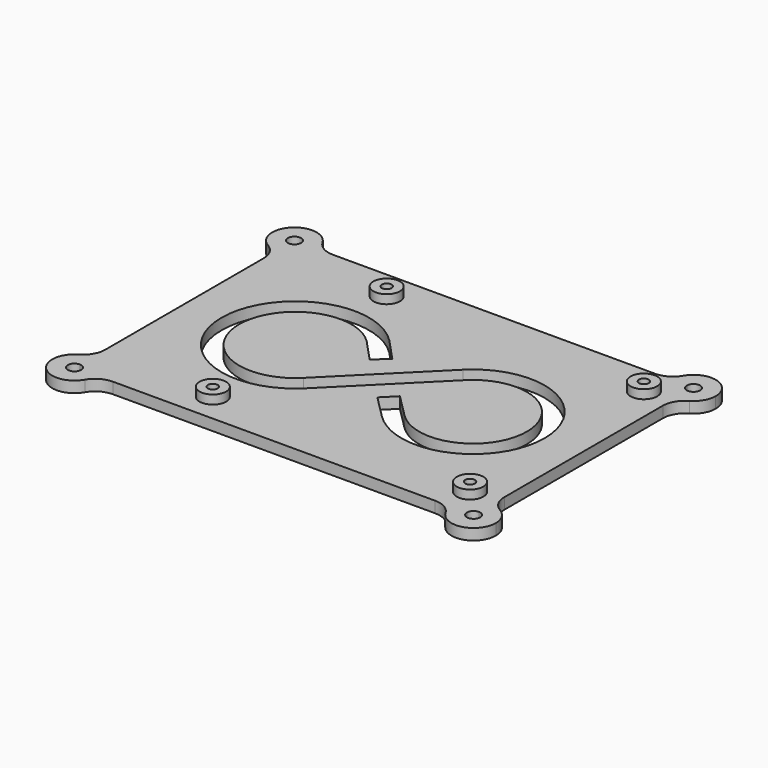
from build123d import *

# Parameters (mm, degrees)
F1_DEPTH = 2.5
F2_R     = 5
F3_R     = 3
F4_DEPTH = 2
F6_D     = 2.2
F6_DEPTH = 3.5
F6_TIP   = 0.6609466809


with BuildPart() as f1:
    # F0 (on Top) → F1 (new body)
    with BuildSketch(Plane.XY):
        with BuildLine():
            ThreePointArc((-45, -26), (-48.5355339059, -34.5355339059), (-40, -31))
            Line((-40, -31), (-43.5, -31))
            ThreePointArc((-43.5, -31), (-46.0606601718, -32.0606601718), (-45, -29.5))
            Line((-45, -29.5), (-45, -26))
        make_face()
        with BuildLine():
            ThreePointArc((-45, -26), (-41.4644660941, -27.4644660941), (-40, -31))
            Line((-40, -31), (40, -31))
            ThreePointArc((40, -31), (41.4644660941, -27.4644660941), (45, -26))
            Line((45, -26), (45, 26))
            ThreePointArc((45, 26), (41.4644660941, 27.4644660941), (40, 31))
            Line((40, 31), (-40, 31))
            ThreePointArc((-40, 31), (-41.4644660941, 27.4644660941), (-45, 26))
            Line((-45, 26), (-45, -26))
        make_face()
        with BuildLine():
            Line((-11.0606601718, -8.9393398282), (8.9393398282, 11.0606601718))
            ThreePointArc((8.9393398282, 11.0606601718), (36.4956890143, -0.3535533906), (8.9393398282, -11.767766953))
            Line((8.9393398282, -11.767766953), (3.7625631329, -6.5909902577))
            Line((3.7625631329, -6.5909902577), (5.1767766953, -5.1767766953))
            Line((5.1767766953, -5.1767766953), (6.5909902577, -3.7625631329))
            Line((6.5909902577, -3.7625631329), (11.767766953, -8.9393398282))
            ThreePointArc((11.767766953, -8.9393398282), (32.4956890143, -0.3535533906), (11.767766953, 8.232233047))
            Line((11.767766953, 8.232233047), (-8.232233047, -11.767766953))
            ThreePointArc((-8.232233047, -11.767766953), (-36.6421356237, 0), (-8.232233047, 11.767766953))
            ThreePointArc((-8.232233047, 11.767766953), (-8.2074655375, 11.7425578811), (-8.1831473235, 11.716915118))
            Line((-8.1831473235, 11.716915118), (-3.3599240188, 6.5401384227))
            Line((-3.3599240188, 6.5401384227), (-4.8232233047, 5.1767766953))
            Line((-4.8232233047, 5.1767766953), (-6.2865225906, 3.8134149679))
            Line((-6.2865225906, 3.8134149679), (-11.0847678218, 8.9633826393))
            ThreePointArc((-11.0847678218, 8.9633826393), (-32.6421241617, -0.0170237742), (-11.0606601718, -8.9393398282))
        make_face(mode=Mode.SUBTRACT)
        with BuildLine():
            Line((-43.5, -31), (-40, -31))
            ThreePointArc((-40, -31), (-41.4644660941, -27.4644660941), (-45, -26))
            Line((-45, -26), (-45, -29.5))
            ThreePointArc((-45, -29.5), (-43.9393398282, -29.9393398282), (-43.5, -31))
        make_face()
        with BuildLine():
            ThreePointArc((45, -26), (41.4644660941, -27.4644660941), (40, -31))
            Line((40, -31), (43.5, -31))
            ThreePointArc((43.5, -31), (43.9393398282, -29.9393398282), (45, -29.5))
            Line((45, -29.5), (45, -26))
        make_face()
        with BuildLine():
            Line((43.5, -31), (40, -31))
            ThreePointArc((40, -31), (45, -36), (50, -31))
            ThreePointArc((50, -31), (48.5355339059, -27.4644660941), (45, -26))
            Line((45, -26), (45, -29.5))
            ThreePointArc((45, -29.5), (46.0606601718, -29.9393398282), (46.5, -31))
            ThreePointArc((46.5, -31), (45, -32.5), (43.5, -31))
        make_face()
        with BuildLine():
            ThreePointArc((-40, 31), (-48.5355339059, 34.5355339059), (-45, 26))
            Line((-45, 26), (-45, 29.5))
            ThreePointArc((-45, 29.5), (-46.0606601718, 32.0606601718), (-43.5, 31))
            Line((-43.5, 31), (-40, 31))
        make_face()
        with BuildLine():
            Line((-45, 29.5), (-45, 26))
            ThreePointArc((-45, 26), (-41.4644660941, 27.4644660941), (-40, 31))
            Line((-40, 31), (-43.5, 31))
            ThreePointArc((-43.5, 31), (-43.9393398282, 29.9393398282), (-45, 29.5))
        make_face()
        with BuildLine():
            ThreePointArc((40, 31), (41.4644660941, 27.4644660941), (45, 26))
            Line((45, 26), (45, 29.5))
            ThreePointArc((45, 29.5), (43.9393398282, 29.9393398282), (43.5, 31))
            Line((43.5, 31), (40, 31))
        make_face()
        with BuildLine():
            Line((45, 29.5), (45, 26))
            ThreePointArc((45, 26), (48.5355339059, 27.4644660941), (50, 31))
            ThreePointArc((50, 31), (45, 36), (40, 31))
            Line((40, 31), (43.5, 31))
            ThreePointArc((43.5, 31), (45, 32.5), (46.5, 31))
            ThreePointArc((46.5, 31), (46.0606601718, 29.9393398282), (45, 29.5))
        make_face()
    extrude(amount=F1_DEPTH)

    # F2
    f2_edges = [f1.edges().sort_by_distance(p)[0] for p in [
        (-40, -31, 1.25),
        (45, 26, 1.25),
        (40, -31, 1.25),
        (-45, -26, 1.25),
        (-45, 26, 1.25),
        (-40, 31, 1.25),
        (40, 31, 1.25),
        (45, -26, 1.25),
    ]]
    fillet(f2_edges, radius=F2_R)

    # F3 (on face) → F4 (join)
    with BuildSketch(Plane.XY.offset(2.5)):
        with Locations((-19, -24.5)):
            Circle(F3_R)
        with Locations((39, -24.5)):
            Circle(F3_R)
        with Locations((39, 24.5)):
            Circle(F3_R)
        with Locations((-19, 24.5)):
            Circle(F3_R)
    extrude(amount=F4_DEPTH)

    # F6
    with Locations(Plane.XY.offset(4.5)):
        with Locations((-19, 24.5), (39, 24.5), (39, -24.5), (-19, -24.5)):
            Hole(F6_D / 2, depth=F6_DEPTH)
            with Locations((0, 0, -(F6_DEPTH + F6_TIP / 2))):  # 118° drill point
                Cone(0, F6_D / 2, F6_TIP, mode=Mode.SUBTRACT)


solid = f1.part
